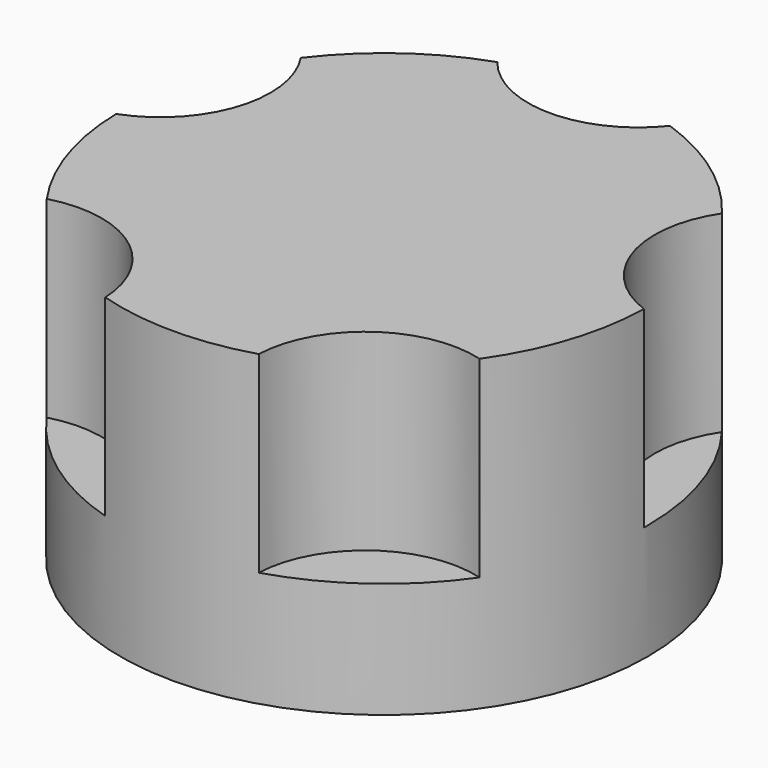
from build123d import *

# Parameters (mm, degrees)
F0_R     = 34.280091
F1_DEPTH = 40
F3_DEPTH = 25
F5_DEPTH = 25


with BuildPart() as f1:
    # F0 (on Top) → F1 (new body)
    with BuildSketch(Plane.XY):
        with Locations((-24.425134, 29.899733)):
            Circle(F0_R)
    extrude(amount=F1_DEPTH)

    # F2 (on face) → F3 (cut)
    with BuildSketch(Plane.XY.offset(40)):
        with BuildLine():
            ThreePointArc((-13.213922, 62.294692), (-24.425134, 64.179824), (-35.636346, 62.294692))
            ThreePointArc((-35.636346, 62.294692), (-24.425134, 56.870885), (-13.213922, 62.294692))
        make_face()
        with BuildLine():
            ThreePointArc((-13.213922, 62.294692), (-10.920198, 66.471352), (-10.126233, 71.169786))
            ThreePointArc((-10.126233, 71.169786), (-29.123568, 84.674722), (-35.636346, 62.294692))
            ThreePointArc((-35.636346, 62.294692), (-24.425134, 64.179824), (-13.213922, 62.294692))
        make_face()
        with BuildLine():
            ThreePointArc((9.854957, 29.899733), (8.074967, 40.802397), (2.919848, 50.572822))
            ThreePointArc((2.919848, 50.572822), (1.225956, 38.234277), (9.848758, 29.24783))
            ThreePointArc((9.848758, 29.24783), (9.853407, 29.573767), (9.854957, 29.899733))
        make_face()
        with BuildLine():
            ThreePointArc((29.12392, 42.652881), (18.961908, 56.340274), (2.919848, 50.572822))
            ThreePointArc((2.919848, 50.572822), (8.074967, 40.802397), (9.854957, 29.899733))
            ThreePointArc((9.854957, 29.899733), (9.853407, 29.573767), (9.848758, 29.24783))
            ThreePointArc((9.848758, 29.24783), (22.989071, 30.913766), (29.12392, 42.652881))
        make_face()
        with BuildLine():
            ThreePointArc((14.131696, -3.488441), (11.224856, 5.15329), (3.686206, 10.281446))
            ThreePointArc((3.686206, 10.281446), (-4.275802, 2.166557), (-14.453916, -2.898124))
            ThreePointArc((-14.453916, -2.898124), (-0.462427, -17.784294), (14.131696, -3.488441))
        make_face()
        with BuildLine():
            ThreePointArc((-14.453916, -2.898124), (-4.275802, 2.166557), (3.686206, 10.281446))
            ThreePointArc((3.686206, 10.281446), (-8.571889, 8.079613), (-14.453916, -2.898124))
        make_face()
        with BuildLine():
            ThreePointArc((-34.396352, -2.898124), (-40.278379, 8.079613), (-52.536474, 10.281446))
            ThreePointArc((-52.536474, 10.281446), (-44.574466, 2.166557), (-34.396352, -2.898124))
        make_face()
        with BuildLine():
            ThreePointArc((-34.396352, -2.898124), (-44.574466, 2.166557), (-52.536474, 10.281446))
            ThreePointArc((-52.536474, 10.281446), (-57.324793, -14.880502), (-34.384161, -3.488441))
            ThreePointArc((-34.384161, -3.488441), (-34.387209, -3.19322), (-34.396352, -2.898124))
        make_face()
        with BuildLine():
            ThreePointArc((-58.699026, 29.24783), (-57.027438, 40.492864), (-51.770116, 50.572822))
            ThreePointArc((-51.770116, 50.572822), (-77.27435, 47.071485), (-58.699026, 29.24783))
        make_face()
        with BuildLine():
            ThreePointArc((-49.376386, 42.652881), (-49.987894, 46.78977), (-51.770116, 50.572822))
            ThreePointArc((-51.770116, 50.572822), (-57.027438, 40.492864), (-58.699026, 29.24783))
            ThreePointArc((-58.699026, 29.24783), (-51.936172, 34.488828), (-49.376386, 42.652881))
        make_face()
    extrude(amount=-F3_DEPTH, mode=Mode.SUBTRACT)

    # F4 (on face) → F5 (cut)
    with BuildSketch(Plane(origin=(0, 0, 0), x_dir=(1, 0, 0), z_dir=(0, 0, -1))):
        Polygon((-24.329751, -35.569776), (-19.467041, -32.652151), (-19.562424, -26.982108), (-24.520517, -24.22969), (-29.383227, -27.147316), (-29.287844, -32.817359), align=None)
    extrude(amount=-F5_DEPTH, mode=Mode.SUBTRACT)


solid = f1.part
